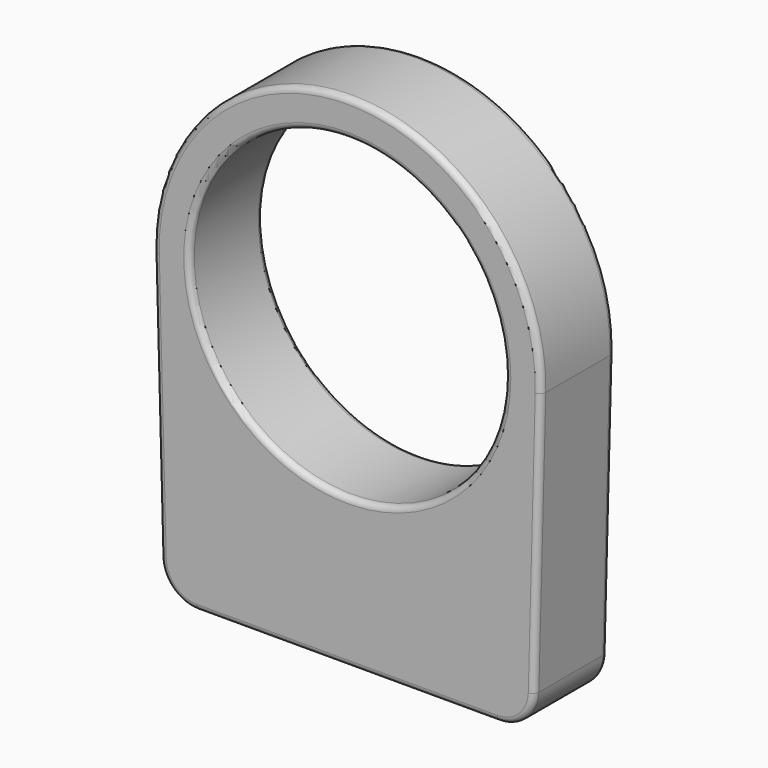
from build123d import *

# Parameters (mm, degrees)
F0_R     = 13.63345
F1_DEPTH = 3.96875
F2_R     = 0.508


with BuildPart() as f1:
    # F0 (on Front) → F1 (new body, symmetric)
    with BuildSketch(Plane.XZ):
        with BuildLine():
            Line((16.1556575987, -23.4511118109), (16.7582553959, -0.4388303614))
            ThreePointArc((16.7582553959, -0.4388303614), (0, 16.764), (-16.7582553959, -0.4388303614))
            Line((-16.7582553959, -0.4388303614), (-16.1556575987, -23.4511118109))
            ThreePointArc((-16.1556575987, -23.4511118109), (-15.1972303019, -25.6422586704), (-12.9817455919, -26.543))
            Line((-12.9817455919, -26.543), (12.9817455919, -26.543))
            ThreePointArc((12.9817455919, -26.543), (15.1972303019, -25.6422586704), (16.1556575987, -23.4511118109))
        make_face()
        Circle(F0_R, mode=Mode.SUBTRACT)
    extrude(amount=F1_DEPTH, both=True)

    # F2
    f2_edges = [f1.edges().sort_by_distance(p)[0] for p in [
        (15.19723, -3.96875, -25.642259),
        (16.456956, -3.96875, -11.944971),
        (0, -3.96875, 16.764),
        (-16.456956, -3.96875, -11.944971),
        (-15.19723, -3.96875, -25.642259),
        (0, -3.96875, -26.543),
        (-13.63345, -3.96875, 0),
        (15.19723, 3.96875, -25.642259),
        (16.456956, 3.96875, -11.944971),
        (0, 3.96875, 16.764),
        (-16.456956, 3.96875, -11.944971),
        (-15.19723, 3.96875, -25.642259),
        (0, 3.96875, -26.543),
        (-13.63345, 3.96875, 0),
    ]]
    fillet(f2_edges, radius=F2_R)


solid = f1.part
